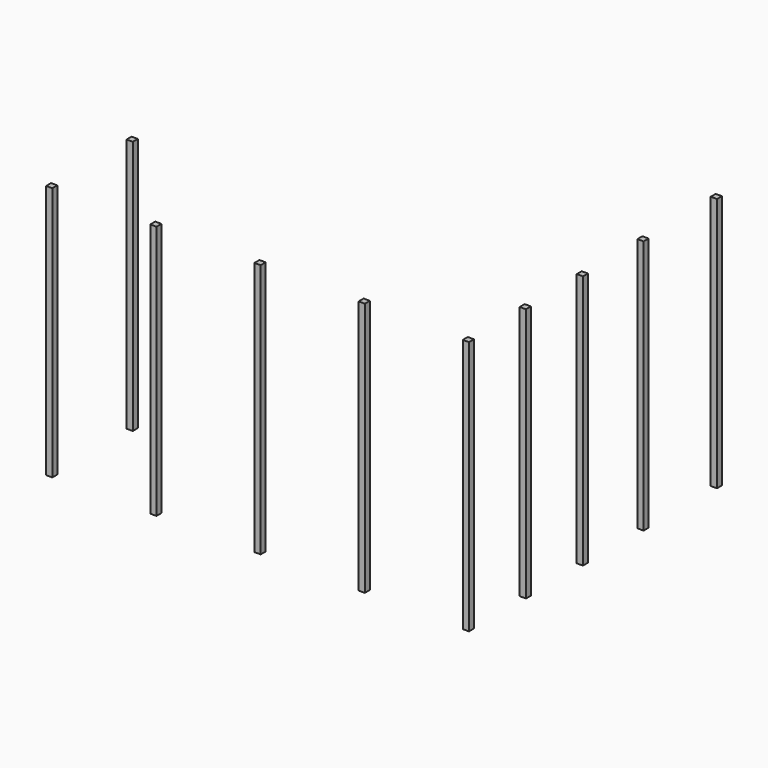
from build123d import *

# Parameters (mm, degrees)
F0_W     = 88.9
F0_H     = 88.9
F1_DEPTH = 3632.2


with BuildPart() as f1:
    # F0 (on Top) → F1 (new body)
    with BuildSketch(Plane.XY):
        with Locations((-44.45, 44.45)):
            Rectangle(F0_W, F0_H)
        with Locations((-1530.35, 44.45)):
            Rectangle(F0_W, F0_H)
        with Locations((-3016.25, 44.45)):
            Rectangle(F0_W, F0_H)
        with Locations((-4502.15, 44.45)):
            Rectangle(F0_W, F0_H)
        with Locations((-5988.05, 44.45)):
            Rectangle(F0_W, F0_H)
        with Locations((-44.45, 1060.45)):
            Rectangle(F0_W, F0_H)
        with Locations((-44.45, 2076.45)):
            Rectangle(F0_W, F0_H)
        with Locations((-44.45, 4465.193)):
            Rectangle(F0_W, F0_H)
        with Locations((-5988.05, 1479.55)):
            Rectangle(F0_W, F0_H)
        with Locations((-44.45, 3157.093)):
            Rectangle(F0_W, F0_H)
    extrude(amount=F1_DEPTH)


solid = f1.part
